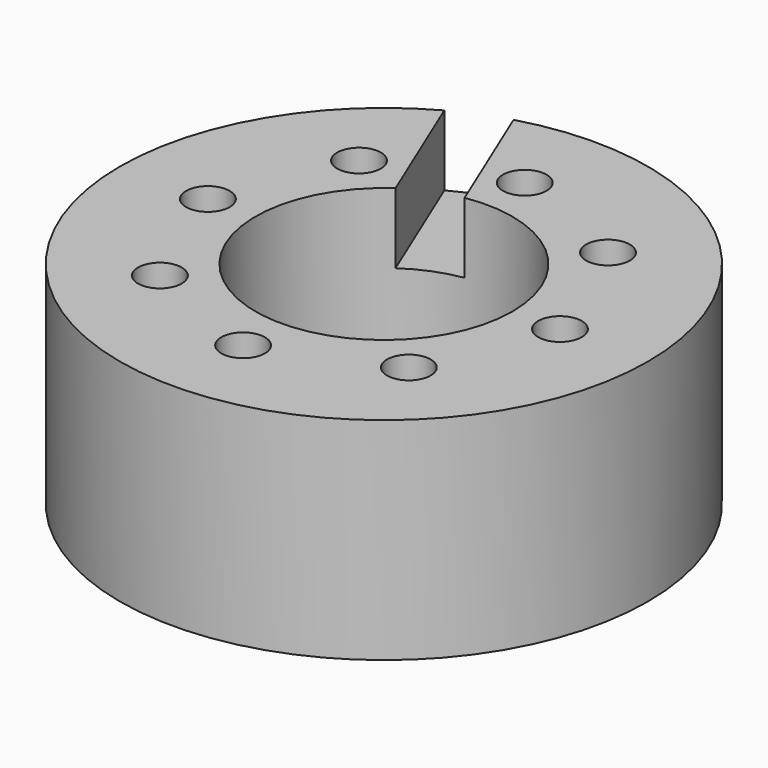
from build123d import *

# Parameters (mm, degrees)
F0_R     = 37.5
F1_DEPTH = 30
F2_R     = 31.5
F3_DEPTH = 7
F4_R     = 3.1
F5_DEPTH = 23
F6_R     = 18.25
F7_DEPTH = 23
F9_DEPTH = 10


with BuildPart() as f1:
    # F0 (on Top) → F1 (new body)
    with BuildSketch(Plane.XY):
        Circle(F0_R)
    extrude(amount=F1_DEPTH)

    # F2 (on face) → F3 (cut)
    with BuildSketch(Plane(origin=(0, 0, 0), x_dir=(1, 0, 0), z_dir=(0, 0, -1))):
        Circle(F2_R)
    extrude(amount=-F3_DEPTH, mode=Mode.SUBTRACT)

    # F4 (on face) → F5 (cut, through all)
    with BuildSketch(Plane(origin=(0, 0, 7), x_dir=(1, 0, 0), z_dir=(0, 0, -1))):
        with Locations((25, 0)):
            Circle(F4_R)
        with Locations((17.6776695297, 17.6776695297)):
            Circle(F4_R)
        with Locations((0, 25)):
            Circle(F4_R)
        with Locations((-17.6776695297, 17.6776695297)):
            Circle(F4_R)
        with Locations((-25, 0)):
            Circle(F4_R)
        with Locations((-17.6776695297, -17.6776695297)):
            Circle(F4_R)
        with Locations((0, -25)):
            Circle(F4_R)
        with Locations((17.6776695297, -17.6776695297)):
            Circle(F4_R)
    extrude(amount=-F5_DEPTH, mode=Mode.SUBTRACT)

    # F6 (on face) → F7 (cut, through all)
    with BuildSketch(Plane.XY.offset(30)):
        Circle(F6_R)
    extrude(amount=-F7_DEPTH, mode=Mode.SUBTRACT)

    # F8 (on face) → F9 (cut)
    with BuildSketch(Plane.XY.offset(30)):
        with BuildLine():
            Line((-2.9506152383, 18.0098964382), (-10.41284244, 36.0253065541))
            ThreePointArc((-10.41284244, 36.0253065541), (-14.1961717752, 34.7090579954), (-17.8175149302, 32.9967598669))
            Line((-17.8175149302, 32.9967598669), (-10.3702066072, 15.0173671103))
            ThreePointArc((-10.3702066072, 15.0173671103), (-6.8264105945, 16.9252065983), (-2.9506152383, 18.0098964382))
        make_face()
    extrude(amount=-F9_DEPTH, mode=Mode.SUBTRACT)


solid = f1.part
